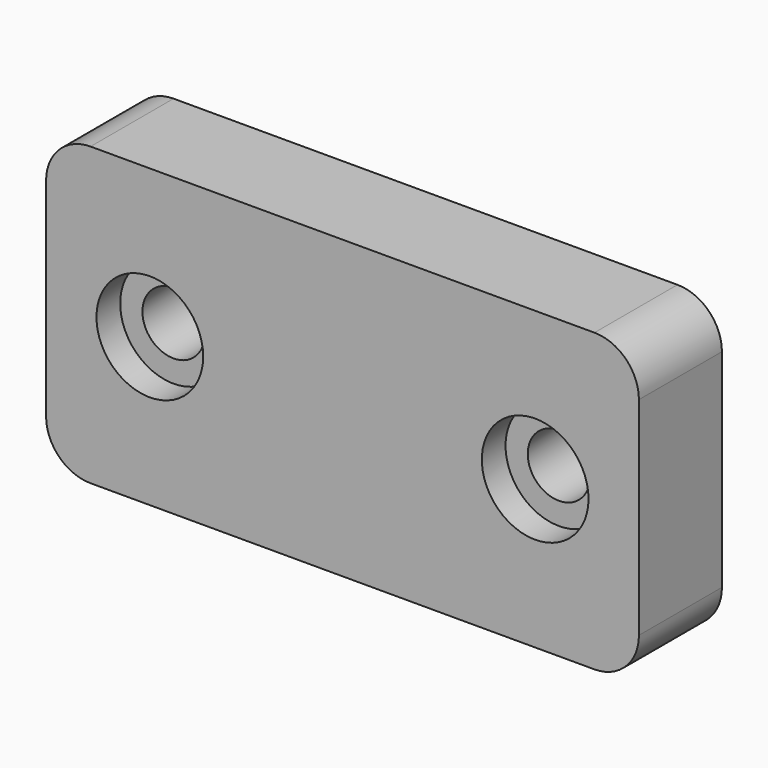
from build123d import *

# Parameters (mm, degrees)
PAD_DEPTH       = 10
SKETCH001_R     = 2.1
POCKET_DEPTH    = 10
FILLET_R        = 3
SKETCH002_R     = 3.6
POCKET001_DEPTH = 2
PAD001_DEPTH    = 8


with BuildPart() as part:
    # Sketch → Pad (new body, symmetric)
    with BuildSketch(Plane.XY):
        with BuildLine():
            Line((-20, 7), (-20, 0))
            Line((-20, 0), (20, 0))
            Line((20, 0), (20, 7))
            Line((20, 7), (5, 7))
            ThreePointArc((-5, 7), (0, 2), (5, 7))
            Line((-20, 7), (-5, 7))
        make_face()
    extrude(amount=PAD_DEPTH, both=True)

    # Sketch001 → Pocket (cut)
    with BuildSketch(Plane.XZ):
        with Locations((-13, 0)):
            Circle(SKETCH001_R)
        with Locations((13, 0)):
            Circle(SKETCH001_R)
    extrude(amount=-POCKET_DEPTH, mode=Mode.SUBTRACT)

    # Fillet
    fillet_edges = [part.edges().sort_by_distance(p)[0] for p in [
        (-20, 3.5, -10),
        (20, 3.5, -10),
        (-20, 3.5, 10),
        (20, 3.5, 10),
    ]]
    fillet(fillet_edges, radius=FILLET_R)

    # Sketch002 → Pocket001 (cut)
    with BuildSketch(Plane.XZ):
        with Locations((-13, 0)):
            Circle(SKETCH002_R)
        with Locations((13, 0)):
            Circle(SKETCH002_R)
    extrude(amount=-POCKET001_DEPTH, mode=Mode.SUBTRACT)

    # Sketch003 → Pad001 (new body)
    with BuildSketch(Plane.XY.offset(10)):
        with BuildLine():
            ThreePointArc((-5, 7), (0, 2), (5, 7))
            Line((-5, 7), (5, 7))
        make_face()
    extrude(amount=-PAD001_DEPTH)


solid = part.part
